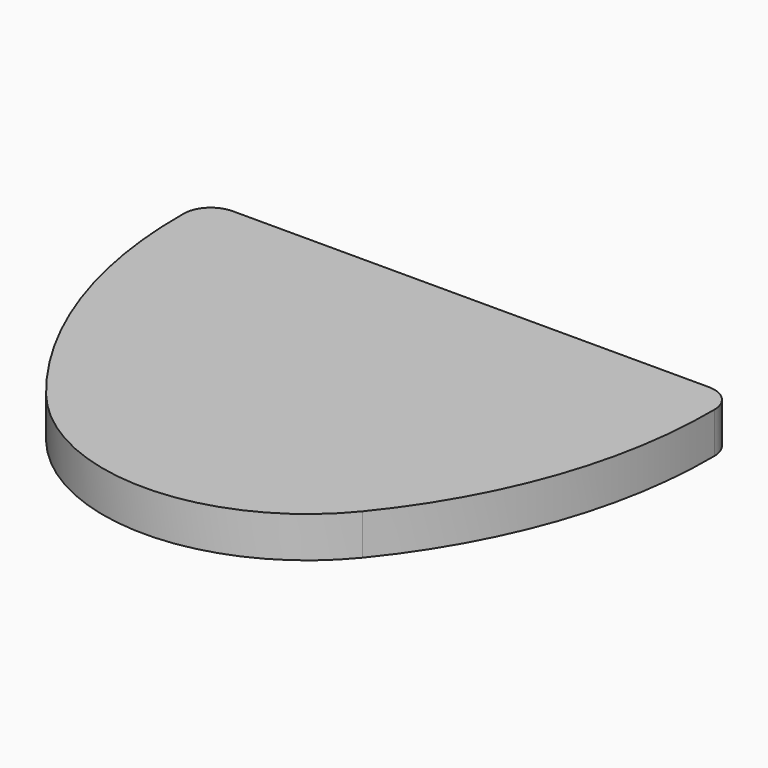
from build123d import *

# Parameters (mm, degrees)
F1_DEPTH = 3


with BuildPart() as f1:
    # F0 (on Top) → F1 (new body)
    with BuildSketch(Plane.XY):
        with BuildLine():
            Line((0, 0), (-17.5, 0))
            ThreePointArc((-17.5, 0), (-18.906513, -0.578128), (-19.499882, -1.978279))
            ThreePointArc((-19.499882, -1.978279), (-17.536844, -13.921068), (-11.62354, -24.481208))
            ThreePointArc((-11.62354, -24.481208), (0, -30), (11.62354, -24.481208))
            ThreePointArc((11.62354, -24.481208), (17.536844, -13.921068), (19.499882, -1.978279))
            ThreePointArc((19.499882, -1.978279), (18.906513, -0.578128), (17.5, 0))
            Line((17.5, 0), (0, 0))
        make_face()
    extrude(amount=F1_DEPTH)


solid = f1.part
